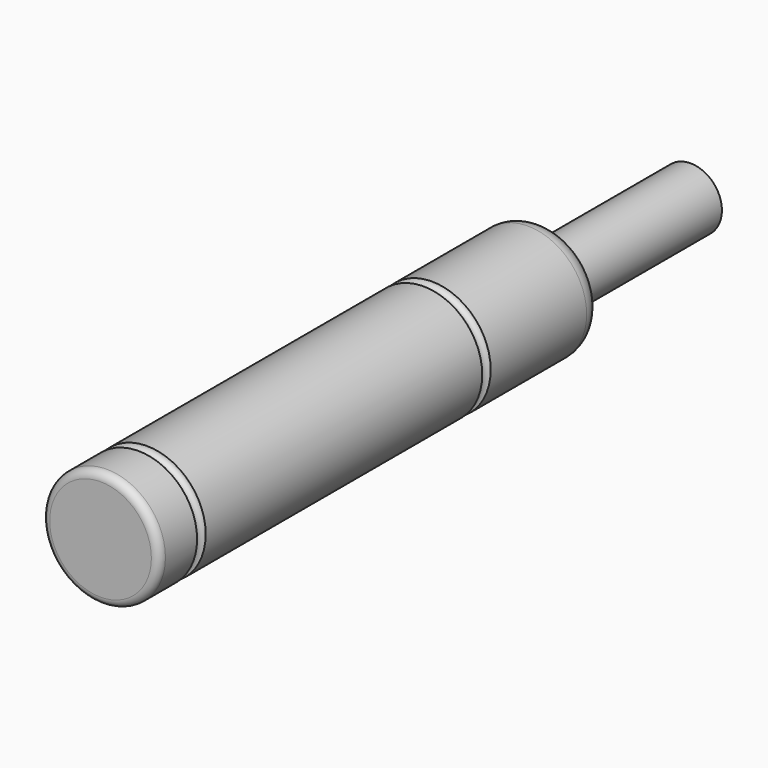
from build123d import *

# Parameters (mm, degrees)
F0_R     = 5.715
F1_DEPTH = 54.102
F2_R     = 3.048
F3_DEPTH = 17.78
F4_R     = 2.032
F5_R     = 0.762
F6_R     = 0.523923
F6_R_2   = 0.523782


with BuildPart() as f1:
    # F0 (on Front) → F1 (new body)
    with BuildSketch(Plane.XZ):
        Circle(F0_R)
    extrude(amount=F1_DEPTH)

    # F2 (on Front) → F3 (join)
    with BuildSketch(Plane.XZ):
        Circle(F2_R)
    extrude(amount=-F3_DEPTH)

    # F4
    f4_edges = [f1.edges().sort_by_distance(p)[0] for p in [
        (-5.715, 0, 0),
    ]]
    fillet(f4_edges, radius=F4_R)

    # F5
    f5_edges = [f1.edges().sort_by_distance(p)[0] for p in [
        (-5.715, -54.102, 0),
    ]]
    fillet(f5_edges, radius=F5_R)

    # F6 (on Top) → F7 (revolve, cut)
    with BuildSketch(Plane.XY):
        with Locations((5.73946, -48.960872)):
            Circle(F6_R)
        with Locations((5.812218, -14.236228)):
            Circle(F6_R_2)
    revolve(axis=Axis((0, -36.495245, 0), (0, 1, 0)), mode=Mode.SUBTRACT)


solid = f1.part
